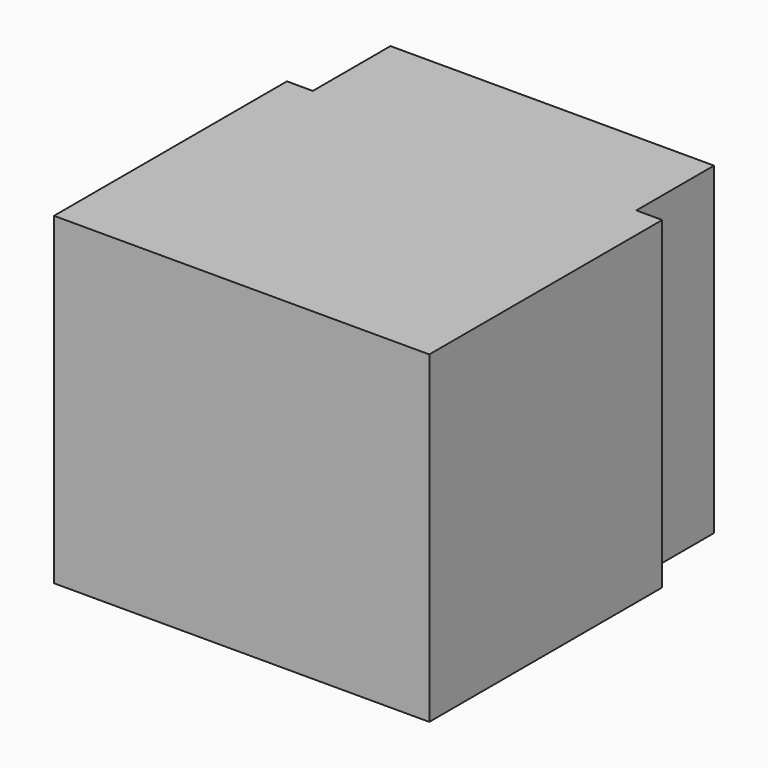
from build123d import *

# Parameters (mm, degrees)
F0_W     = 58
F0_H     = 50
F1_DEPTH = 60
F2_W     = 4
F2_H     = 15
F3_DEPTH = 50


with BuildPart() as f1:
    # F0 (on Front) → F1 (new body)
    with BuildSketch(Plane.XZ):
        with Locations((1.641451, -13.827058)):
            Rectangle(F0_W, F0_H)
    extrude(amount=F1_DEPTH)

    # F2 (on face) → F3 (cut)
    with BuildSketch(Plane(origin=(0, 0, -38.827058), x_dir=(1, 0, 0), z_dir=(0, 0, -1))):
        with Locations((-25.358549, 7.5)):
            Rectangle(F2_W, F2_H)
        with Locations((28.641451, 7.5)):
            Rectangle(F2_W, F2_H)
    extrude(amount=-F3_DEPTH, mode=Mode.SUBTRACT)


solid = f1.part
